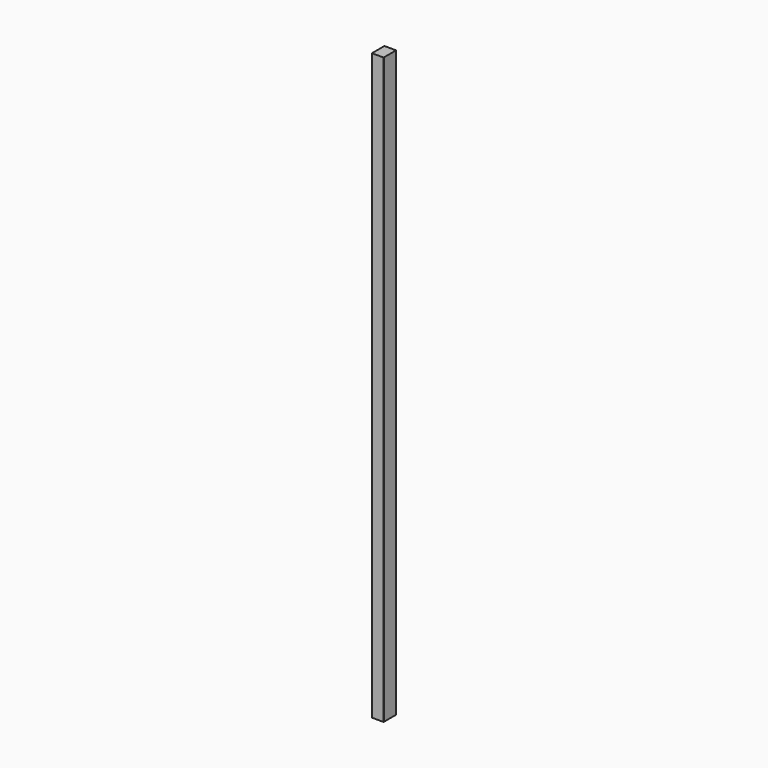
from build123d import *

# Parameters (mm, degrees)
F0_W     = 60
F0_H     = 80
F1_DEPTH = 3000
F2_SIZE  = 1
F3_SIZE  = 1
F4_SIZE  = 1
F5_SIZE  = 1


with BuildPart() as f1:
    # F0 (on Top) → F1 (new body)
    with BuildSketch(Plane.XY):
        with Locations((30, 40)):
            Rectangle(F0_W, F0_H)
    extrude(amount=F1_DEPTH)

    # F2
    f2_edges = [f1.edges().sort_by_distance(p)[0] for p in [
        (60, 0, 1500),
    ]]
    chamfer(f2_edges, length=F2_SIZE)

    # F3
    f3_edges = [f1.edges().sort_by_distance(p)[0] for p in [
        (0, 0, 1500),
    ]]
    chamfer(f3_edges, length=F3_SIZE)

    # F4
    f4_edges = [f1.edges().sort_by_distance(p)[0] for p in [
        (60, 80, 1500),
    ]]
    chamfer(f4_edges, length=F4_SIZE)

    # F5
    f5_edges = [f1.edges().sort_by_distance(p)[0] for p in [
        (0, 80, 1500),
    ]]
    chamfer(f5_edges, length=F5_SIZE)


solid = f1.part
